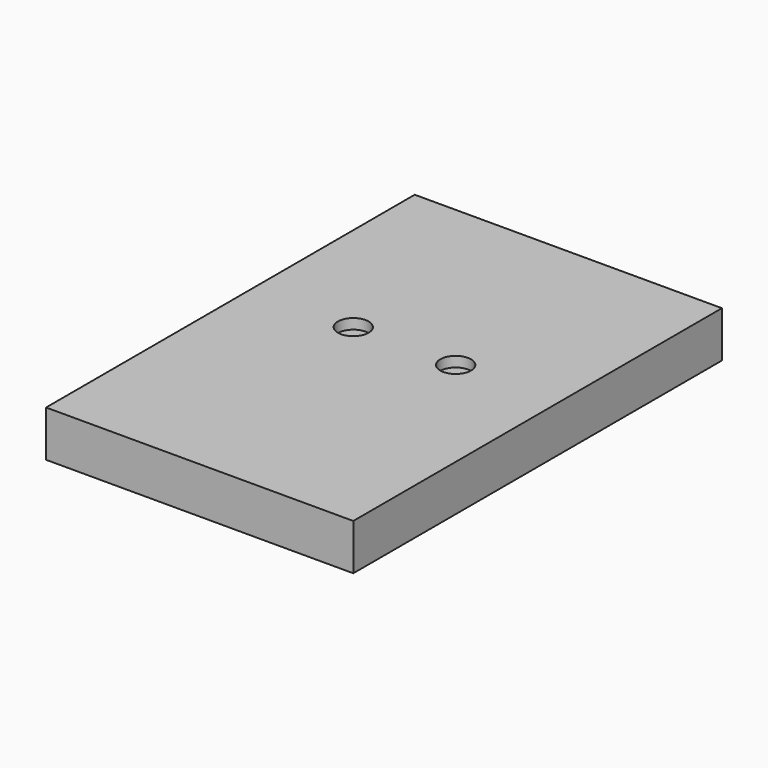
from build123d import *

# Parameters (mm, degrees)
F0_W     = 76.2
F0_H     = 11.43
F1_DEPTH = 114.3
F2_R     = 6.35
F3_DEPTH = 6.35
F4_R     = 3.81
F5_DEPTH = 2.54


with BuildPart() as f1:
    # F0 (on Front) → F1 (new body)
    with BuildSketch(Plane.XZ):
        with Locations((3.763746, -13.567377)):
            Rectangle(F0_W, F0_H)
    extrude(amount=F1_DEPTH)

    # F2 (on face) → F3 (cut)
    with BuildSketch(Plane(origin=(0, 0, -19.282377), x_dir=(1, 0, 0), z_dir=(0, 0, -1))):
        with Locations((-21.636254, 101.6)):
            Circle(F2_R)
        with Locations((29.163746, 101.6)):
            Circle(F2_R)
        with Locations((29.163746, 12.7)):
            Circle(F2_R)
        with Locations((-21.636254, 12.7)):
            Circle(F2_R)
    extrude(amount=-F3_DEPTH, mode=Mode.SUBTRACT)

    # F4 (on face) → F5 (cut)
    with BuildSketch(Plane.XY.offset(-7.852377)):
        with Locations((16.463746, -50.8)):
            Circle(F4_R)
        with Locations((-8.936254, -50.8)):
            Circle(F4_R)
    extrude(amount=-F5_DEPTH, mode=Mode.SUBTRACT)


solid = f1.part
